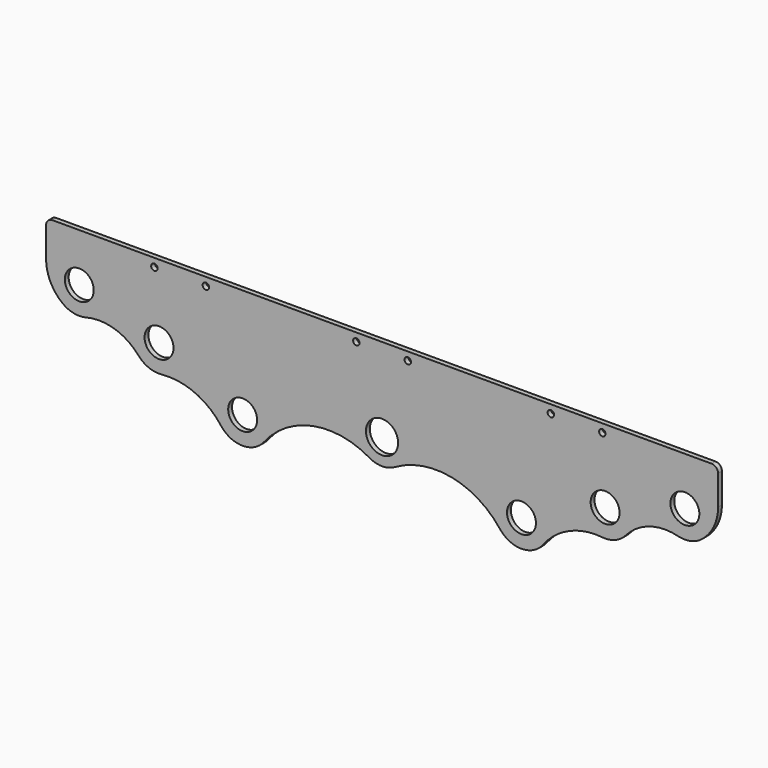
from build123d import *

# Parameters (mm, degrees)
F0_R     = 14.2875
F0_R_2   = 15.875
F0_R_3   = 3.175
F1_DEPTH = 4.7625


with BuildPart() as f1:
    # F0 (on Front) → F1 (new body)
    with BuildSketch(Plane.XZ):
        with BuildLine():
            ThreePointArc((315.569333, 52.011363), (327.457142, 66.708497), (331.705949, 85.127873))
            Line((331.705949, 85.127873), (331.705949, 114.540323))
            ThreePointArc((331.705949, 114.540323), (329.846077, 119.030451), (325.355949, 120.890323))
            Line((325.355949, 120.890323), (0, 120.890323))
            Line((0, 120.890323), (-325.355949, 120.890323))
            ThreePointArc((-325.355949, 120.890323), (-329.846077, 119.030451), (-331.705949, 114.540323))
            Line((-331.705949, 114.540323), (-331.705949, 85.127873))
            ThreePointArc((-331.705949, 85.127873), (-327.457142, 66.708497), (-315.569333, 52.011363))
            ThreePointArc((-315.569333, 52.011363), (-304.458829, 46.848512), (-292.210597, 47.129822))
            ThreePointArc((-292.210597, 47.129822), (-264.113695, 46.413128), (-240.610103, 31.001095))
            ThreePointArc((-240.610103, 31.001095), (-230.160873, 23.572538), (-217.462734, 21.804169))
            ThreePointArc((-217.462734, 21.804169), (-184.976895, 16.764519), (-159.099769, -3.511137))
            ThreePointArc((-159.099769, -3.511137), (-137.801356, -14.14804), (-116.368688, -3.784312))
            ThreePointArc((-116.368688, -3.784312), (-68.279366, 25.639491), (-12.687896, 16.262315))
            ThreePointArc((-12.687896, 16.262315), (-6.569182, 13.715857), (0, 12.838953))
            ThreePointArc((0, 12.838953), (6.569182, 13.715857), (12.687896, 16.262315))
            ThreePointArc((12.687896, 16.262315), (68.279366, 25.639491), (116.368688, -3.784312))
            ThreePointArc((116.368688, -3.784312), (137.801356, -14.14804), (159.099769, -3.511137))
            ThreePointArc((159.099769, -3.511137), (170.736869, 8.287703), (184.976895, 16.764519))
            ThreePointArc((184.976895, 16.764519), (200.896327, 21.369559), (217.462734, 21.804169))
            ThreePointArc((217.462734, 21.804169), (230.160873, 23.572538), (240.610103, 31.001095))
            ThreePointArc((240.610103, 31.001095), (264.113695, 46.413128), (292.210597, 47.129822))
            ThreePointArc((292.210597, 47.129822), (304.458829, 46.848512), (315.569333, 52.011363))
        make_face()
        with Locations((-137.628831, 12.838909)):
            Circle(F0_R, mode=Mode.SUBTRACT)
        with Locations((-220.195925, 48.652909)):
            Circle(F0_R, mode=Mode.SUBTRACT)
        with Locations((-0.047461, 38.238909)):
            Circle(F0_R_2, mode=Mode.SUBTRACT)
        with Locations((137.628831, 12.838909)):
            Circle(F0_R, mode=Mode.SUBTRACT)
        with Locations((220.195925, 48.652909)):
            Circle(F0_R, mode=Mode.SUBTRACT)
        with Locations((-298.938208, 73.265323)):
            Circle(F0_R, mode=Mode.SUBTRACT)
        with Locations((-224.775985, 112.751594)):
            Circle(F0_R_3, mode=Mode.SUBTRACT)
        with Locations((-173.975985, 112.751594)):
            Circle(F0_R_3, mode=Mode.SUBTRACT)
        with Locations((-25.4, 112.751594)):
            Circle(F0_R_3, mode=Mode.SUBTRACT)
        with Locations((298.938208, 73.265323)):
            Circle(F0_R, mode=Mode.SUBTRACT)
        with Locations((25.4, 112.751594)):
            Circle(F0_R_3, mode=Mode.SUBTRACT)
        with Locations((166.605949, 112.751594)):
            Circle(F0_R_3, mode=Mode.SUBTRACT)
        with Locations((217.405949, 112.751594)):
            Circle(F0_R_3, mode=Mode.SUBTRACT)
    extrude(amount=F1_DEPTH)


solid = f1.part
